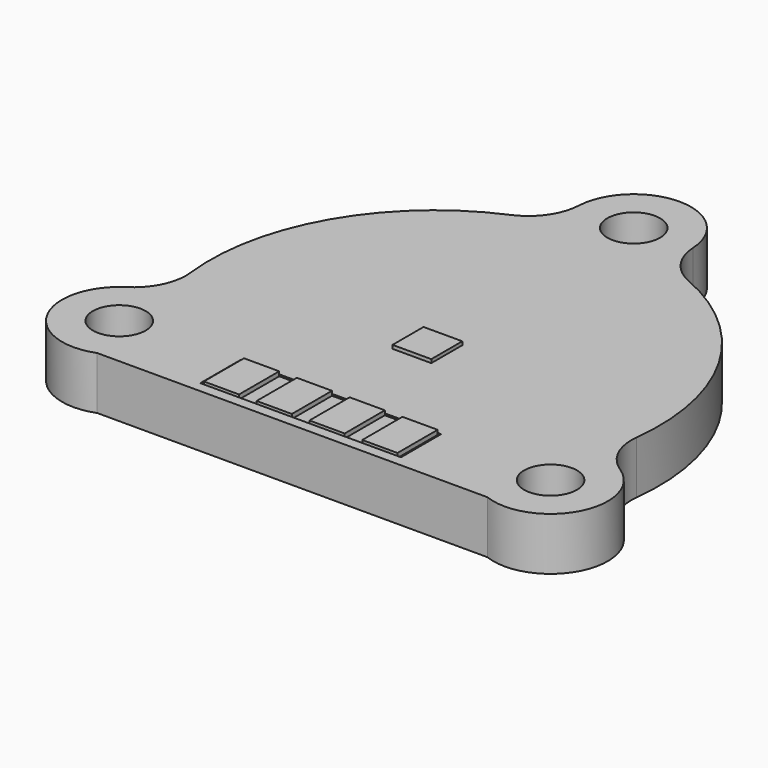
from build123d import *

# Parameters (mm, degrees)
F0_R     = 1.5
F1_DEPTH = 3
F2_W     = 2.2
F2_H     = 2.2
F3_DEPTH = 0.2
F4_W     = 11.4
F4_H     = 2.85
F5_DEPTH = 0.1
F6_W     = 2
F6_H     = 2.85
F7_DEPTH = 0.25


with BuildPart() as f1:
    # F0 (on Top) → F1 (new body)
    with BuildSketch(Plane.XY):
        with BuildLine():
            ThreePointArc((5.053231, 11.711225), (3.778342, 12.753574), (3.24572, 14.311827))
            ThreePointArc((3.24572, 14.311827), (0, 17.395082), (-3.24572, 14.311827))
            ThreePointArc((-3.24572, 14.311827), (-3.778342, 12.753574), (-5.053231, 11.711225))
            ThreePointArc((-5.053231, 11.711225), (-11.046083, 6.377459), (-12.668834, -1.479386))
            ThreePointArc((-12.668834, -1.479386), (-12.93409, -3.104647), (-14.017265, -4.345038))
            ThreePointArc((-14.017265, -4.345038), (-15.14542, -8.548699), (-11.080733, -10.104918))
            Line((-11.080733, -10.104918), (-6.711389, -10.104918))
            Line((-6.711389, -10.104918), (7.566323, -10.104918))
            Line((7.566323, -10.104918), (11.080733, -10.104918))
            ThreePointArc((11.080733, -10.104918), (15.14542, -8.548699), (14.017265, -4.345038))
            ThreePointArc((14.017265, -4.345038), (12.93409, -3.104647), (12.668834, -1.479386))
            ThreePointArc((12.668834, -1.479386), (11.046083, 6.377459), (5.053231, 11.711225))
        make_face()
        with Locations((-12.25, -7.072541)):
            Circle(F0_R, mode=Mode.SUBTRACT)
        with Locations((12.25, -7.072541)):
            Circle(F0_R, mode=Mode.SUBTRACT)
        with Locations((0, 14.145082)):
            Circle(F0_R, mode=Mode.SUBTRACT)
    extrude(amount=F1_DEPTH)

    # F2 (on face) → F3 (join)
    with BuildSketch(Plane.XY.offset(3)):
        with Locations((0, -0.504918)):
            Rectangle(F2_W, F2_H)
    extrude(amount=F3_DEPTH)

    # F4 (on face) → F5 (cut)
    with BuildSketch(Plane.XY.offset(3)):
        with Locations((0, -8.079918)):
            Rectangle(F4_W, F4_H)
    extrude(amount=-F5_DEPTH, mode=Mode.SUBTRACT)

    # F6 (on face) → F7 (join)
    with BuildSketch(Plane.XY.offset(2.9)):
        with Locations((-1.5, -8.079918)):
            Rectangle(F6_W, F6_H)
        with Locations((-4.5, -8.079918)):
            Rectangle(F6_W, F6_H)
        with Locations((1.5, -8.079918)):
            Rectangle(F6_W, F6_H)
        with Locations((4.5, -8.079918)):
            Rectangle(F6_W, F6_H)
    extrude(amount=F7_DEPTH)


solid = f1.part
